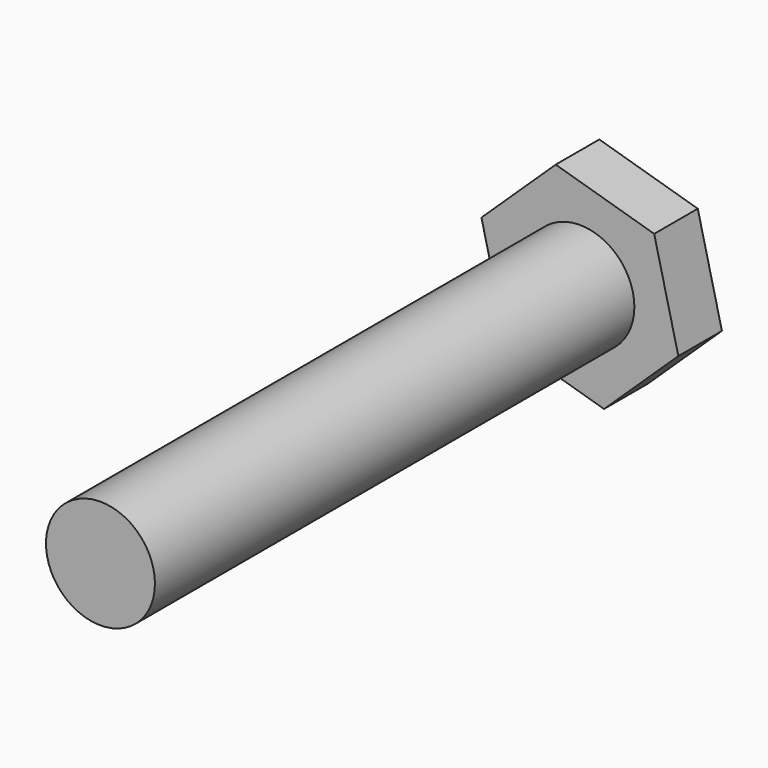
from build123d import *

# Parameters (mm, degrees)
F0_R     = 9.525
F1_DEPTH = 9.525
F2_DEPTH = 88.9
F3_DEPTH = 25.4


with BuildPart() as f1:
    # F0 (on Front) → F1 (new body)
    with BuildSketch(Plane.XZ):
        Polygon((-4.2214523455, 17.4378681917), (-17.2123630146, 5.0630491238), (-12.9909106691, -12.3748190679), (4.2214523455, -17.4378681917), (17.2123630146, -5.0630491238), (12.9909106691, 12.3748190679), align=None)
        Circle(F0_R, mode=Mode.SUBTRACT)
        Circle(F0_R)
    extrude(amount=F1_DEPTH)

    # F0 (on Front) → F2 (join)
    with BuildSketch(Plane.XZ):
        Circle(F0_R)
    extrude(amount=F2_DEPTH)

    # F3 (add): a face of the model
    f3_faces = [f1.faces().sort_by_distance(p)[0] for p in [
        (0, -88.9, 0),
    ]]
    extrude(f3_faces, amount=F3_DEPTH)


solid = f1.part
